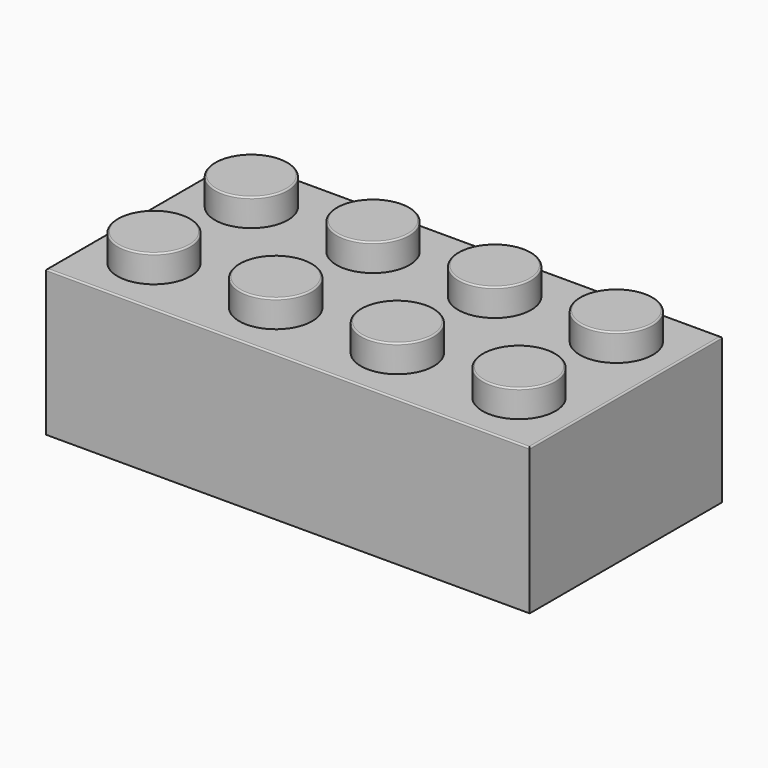
from build123d import *

# Parameters (mm, degrees)
F0_W     = 31.8
F0_H     = 15.8
F1_DEPTH = 9.6
F2_R     = 2.4
F3_DEPTH = 1.8
F4_W     = 29.4
F4_H     = 13.4
F5_DEPTH = 8.4
F5_TAPER = 1.5
F6_R     = 1.3
F7_DEPTH = 1.7
F9_DEPTH = 8.4
F9_TAPER = 1
F10_R    = 0.1


with BuildPart() as f1:
    # F0 (on Top) → F1 (new body)
    with BuildSketch(Plane.XY):
        Rectangle(F0_W, F0_H)
    extrude(amount=F1_DEPTH)

    # F2 (on face) → F3 (join)
    with BuildSketch(Plane.XY.offset(9.6)):
        with Locations((12, -3.9037447423)):
            Circle(F2_R)
        with Locations((12, 4.0962552577)):
            Circle(F2_R)
        with Locations((4, -3.9037447423)):
            Circle(F2_R)
        with Locations((4, 4.0962552577)):
            Circle(F2_R)
        with Locations((-4, -3.9037447423)):
            Circle(F2_R)
        with Locations((-4, 4.0962552577)):
            Circle(F2_R)
        with Locations((-12, -3.9037447423)):
            Circle(F2_R)
        with Locations((-12, 4.0962552577)):
            Circle(F2_R)
    extrude(amount=F3_DEPTH)

    # F4 (on face) → F5 (cut)
    with BuildSketch(Plane(origin=(0, 0, 0), x_dir=(1, 0, 0), z_dir=(0, 0, -1))):
        Rectangle(F4_W, F4_H)
    extrude(amount=-F5_DEPTH, taper=F5_TAPER, mode=Mode.SUBTRACT)

    # F6 (on face) → F7 (cut)
    with BuildSketch(Plane(origin=(0, 0, 8.4), x_dir=(1, 0, 0), z_dir=(0, 0, -1))):
        with Locations((-12, 3.9037447423)):
            Circle(F6_R)
        with Locations((-4, 3.9037447423)):
            Circle(F6_R)
        with Locations((4, 3.9037447423)):
            Circle(F6_R)
        with Locations((12, 3.9037447423)):
            Circle(F6_R)
        with Locations((12, -4.0962552577)):
            Circle(F6_R)
        with Locations((4, -4.0962552577)):
            Circle(F6_R)
        with Locations((-4, -4.0962552577)):
            Circle(F6_R)
        with Locations((-12, -4.0962552577)):
            Circle(F6_R)
    extrude(amount=-F7_DEPTH, mode=Mode.SUBTRACT)

    # F8 (on face) → F9 (join, through all)
    with BuildSketch(Plane(origin=(0, 0, 8.4), x_dir=(1, 0, 0), z_dir=(0, 0, -1))):
        with BuildLine():
            ThreePointArc((-10.4962552577, 0), (-8.0962552577, 2.4), (-5.6962552577, 0))
            Line((-5.6962552577, 0), (-4.8462552577, 0))
            ThreePointArc((-4.8462552577, 0), (-8.0962552577, 3.25), (-11.3462552577, 0))
            Line((-11.3462552577, 0), (-10.4962552577, 0))
        make_face()
        with BuildLine():
            Line((-4.8462552577, 0), (-5.6962552577, 0))
            ThreePointArc((-5.6962552577, 0), (-8.0962552577, -2.4), (-10.4962552577, 0))
            Line((-10.4962552577, 0), (-11.3462552577, 0))
            ThreePointArc((-11.3462552577, 0), (-8.0962552577, -3.25), (-4.8462552577, 0))
        make_face()
        with BuildLine():
            ThreePointArc((11.3462552577, 0), (8.0962552577, 3.25), (4.8462552577, 0))
            Line((4.8462552577, 0), (5.6962552577, 0))
            ThreePointArc((5.6962552577, 0), (8.0962552577, 2.4), (10.4962552577, 0))
            Line((10.4962552577, 0), (11.3462552577, 0))
        make_face()
        with BuildLine():
            Line((5.6962552577, 0), (4.8462552577, 0))
            ThreePointArc((4.8462552577, 0), (8.0962552577, -3.25), (11.3462552577, 0))
            Line((11.3462552577, 0), (10.4962552577, 0))
            ThreePointArc((10.4962552577, 0), (8.0962552577, -2.4), (5.6962552577, 0))
        make_face()
        with BuildLine():
            ThreePointArc((3.25, 0), (0, 3.25), (-3.25, 0))
            Line((-3.25, 0), (-2.4, 0))
            ThreePointArc((-2.4, 0), (0, 2.4), (2.4, 0))
            Line((2.4, 0), (3.25, 0))
        make_face()
        with BuildLine():
            Line((-2.4, 0), (-3.25, 0))
            ThreePointArc((-3.25, 0), (0, -3.25), (3.25, 0))
            Line((3.25, 0), (2.4, 0))
            ThreePointArc((2.4, 0), (0, -2.4), (-2.4, 0))
        make_face()
    extrude(amount=F9_DEPTH, taper=F9_TAPER)

    # F10
    f10_edges = [f1.edges().sort_by_distance(p)[0] for p in [
        (1.6, -3.903745, 11.4),
        (-14.4, -3.903745, 11.4),
        (-14.4, 4.096255, 11.4),
        (-6.4, 4.096255, 11.4),
        (-6.4, -3.903745, 11.4),
        (1.6, 4.096255, 11.4),
        (9.6, 4.096255, 11.4),
        (9.6, -3.903745, 11.4),
        (15.9, 0, 9.6),
        (0, 7.9, 9.6),
        (-15.9, 0, 9.6),
        (0, -7.9, 9.6),
    ]]
    fillet(f10_edges, radius=F10_R)


solid = f1.part
